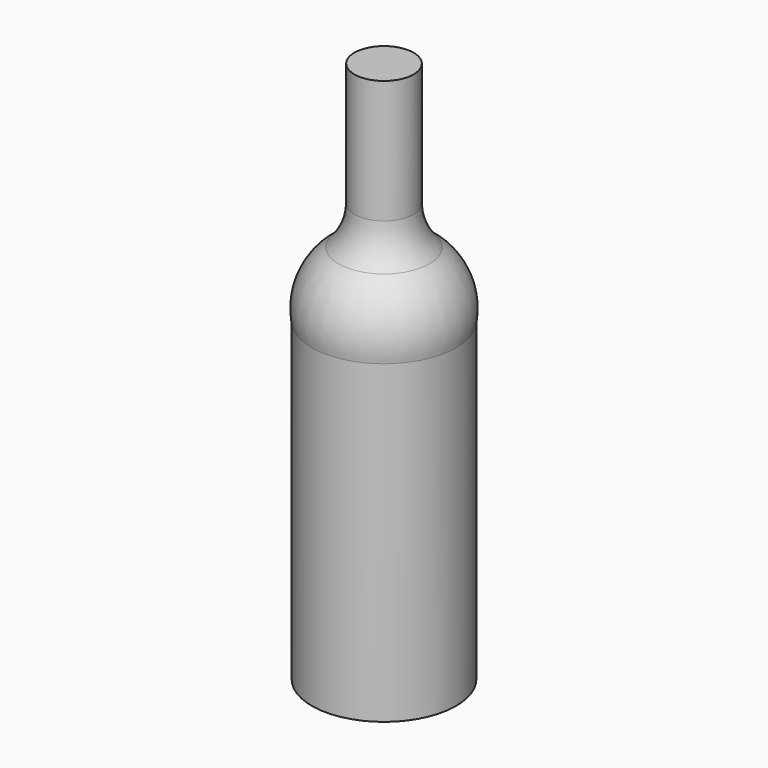
from build123d import *


with BuildPart() as f1:
    # F0 (on Right) → F1 (revolve)
    with BuildSketch(Plane.YZ):
        with BuildLine():
            Line((-104.633797, 331.270309), (-104.633797, 42.270309))
            Line((-104.633797, 42.270309), (-66.133797, 42.270309))
            Line((-66.133797, 42.270309), (-66.133797, 210.342109))
            ThreePointArc((-66.133797, 210.342109), (-68.213258, 229.789505), (-80.354885, 245.122679))
            ThreePointArc((-80.354885, 245.122679), (-86.534413, 254.553716), (-88.879799, 265.582323))
            Line((-88.879799, 265.582323), (-88.879799, 331.270309))
            Line((-88.879799, 331.270309), (-104.633797, 331.270309))
        make_face()
    revolve(axis=Axis((0, -104.633797, 186.770309), (0, 0, 1)))


solid = f1.part
